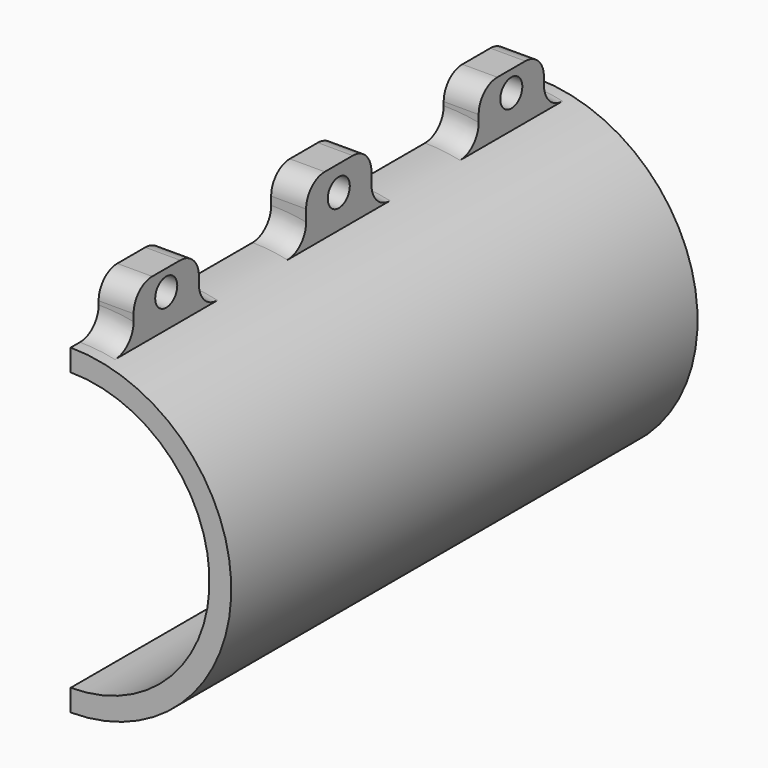
from build123d import *

# Parameters (mm, degrees)
F0_R     = 35
F0_R_2   = 30.25
F1_DEPTH = 63.5
F2_DEPTH = 63.5
F3_W     = 87.9399850965
F3_H     = 153.1552374363
F4_DEPTH = 254
F5_W     = 90.7805785537
F5_H     = 147.2373455763
F6_DEPTH = 254
F7_W     = 17.78
F7_H     = 15.24
F7_R     = 3
F8_DEPTH = 7.62
F9_R     = 5.08


with BuildPart() as f1:
    # F0 (on Front) → F1 (new body)
    with BuildSketch(Plane.XZ):
        Circle(F0_R)
        Circle(F0_R_2, mode=Mode.SUBTRACT)
    extrude(amount=F1_DEPTH)

    # F2 (add): a face of the model
    f2_faces = [f1.faces().sort_by_distance(p)[0] for p in [
        (-34.0100505063, 0, 0),
    ]]
    extrude(f2_faces, amount=F2_DEPTH)

    # F3 (on Top) → F4 (cut)
    with BuildSketch(Plane.XY):
        with Locations((-43.9699925482, -0.2367123961)):
            Rectangle(F3_W, F3_H)
    extrude(amount=-F4_DEPTH, mode=Mode.SUBTRACT)

    # F5 (on Top) → F6 (cut)
    with BuildSketch(Plane.XY):
        with Locations((-45.3902892768, 2.7222335339)):
            Rectangle(F5_W, F5_H)
    extrude(amount=F6_DEPTH, mode=Mode.SUBTRACT)

    # F7 (on Right) → F8 (join)
    with BuildSketch(Plane.YZ):
        with Locations((-46.99, 38.3474125926)):
            Rectangle(F7_W, F7_H)
        with Locations((-46.99, 41.4252951741)):
            Circle(F7_R, mode=Mode.SUBTRACT)
        Polygon((-8.89, 30.7274125926), (0, 30.7274125926), (8.89, 30.7274125926), (8.89, 46.9370521605), (0, 46.9370521605), (-8.89, 46.9370521605), align=None)
        with Locations((0, 41.4252951741)):
            Circle(F7_R, mode=Mode.SUBTRACT)
        with Locations((46.99, 38.3474125926)):
            Rectangle(F7_W, F7_H)
        with Locations((46.99, 41.4252951741)):
            Circle(F7_R, mode=Mode.SUBTRACT)
    extrude(amount=F8_DEPTH)

    # F9
    f9_edges = [f1.edges().sort_by_distance(p)[0] for p in [
        (3.81, -55.88, 45.967413),
        (3.81, -38.1, 45.967413),
        (3.81, -8.89, 46.937052),
        (3.81, 8.89, 46.937052),
        (3.81, 38.1, 45.967413),
        (3.81, 55.88, 45.967413),
        (3.833056, -38.1, 34.789477),
        (3.833056, 8.89, 34.789477),
        (3.833056, 38.1, 34.789477),
        (3.833056, -8.89, 34.789477),
        (3.833056, -55.88, 34.789477),
        (3.833056, 55.88, 34.789477),
    ]]
    fillet(f9_edges, radius=F9_R)


solid = f1.part
